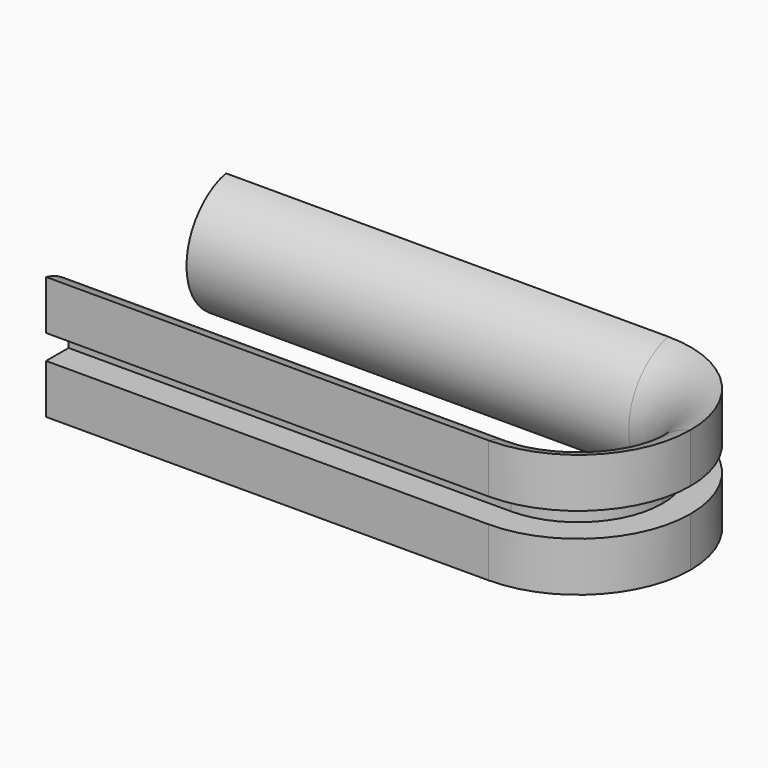
from build123d import *


with BuildPart() as f2:
    # F2: sweep along a path in F0
    with BuildLine(Plane.XY) as f2_path:
        Line((0, 12), (63, 12))
        ThreePointArc((63, 12), (71.4852813742, 8.4852813742), (75, 0))
    # F1 (on Right) → F2 (sweep)
    with BuildSketch(Plane.YZ):
        with BuildLine():
            Line((16, -10.5249643874), (16, -3.5))
            Line((16, -3.5), (12, -3.5))
            Line((12, -3.5), (12, 0))
            Line((12, 0), (16, 0))
            Line((16, 0), (16, 7.0249643874))
            ThreePointArc((16, 7.0249643874), (9, -1.75), (16, -10.5249643874))
        make_face()
    sweep(path=f2_path.line)

    # F3: F2 across face


with BuildPart() as f2_1:
    add(f2.part)
    add(f2.part.mirror(Plane(origin=(75.912514634, 0, -1.75), x_dir=(1, 0, 0), z_dir=(0, -1, 0))))


solid = f2_1.part
